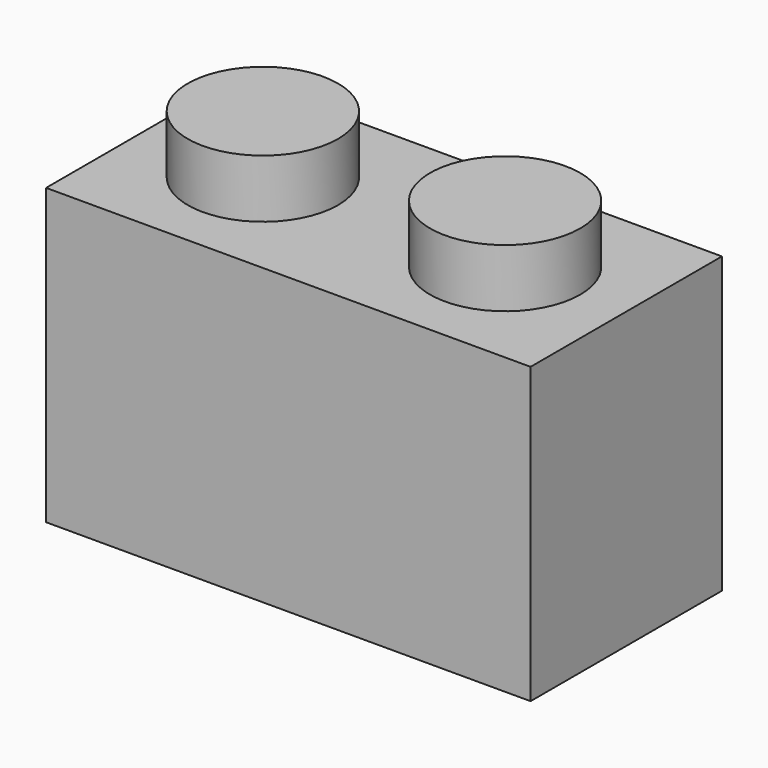
from build123d import *

# Parameters (mm, degrees)
F0_W     = 15.8
F0_H     = 9.6
F1_DEPTH = 7.8
F2_R     = 2.45
F3_DEPTH = 1.9
F4_W     = 12.8
F4_H     = 4.8
F4_R     = 1.55
F5_DEPTH = 8.3


with BuildPart() as f1:
    # F0 (on Front) → F1 (new body)
    with BuildSketch(Plane.XZ):
        with Locations((-56.280687, -17.648849)):
            Rectangle(F0_W, F0_H)
    extrude(amount=F1_DEPTH)

    # F2 (on face) → F3 (join)
    with BuildSketch(Plane.XY.offset(-12.848849)):
        with Locations((-60.230687, -3.9)):
            Circle(F2_R)
        with Locations((-52.330687, -3.9)):
            Circle(F2_R)
    extrude(amount=F3_DEPTH)

    # F4 (on face) → F5 (cut)
    with BuildSketch(Plane(origin=(0, 0, -22.448849), x_dir=(1, 0, 0), z_dir=(0, 0, -1))):
        with Locations((-56.280687, 3.9)):
            Rectangle(F4_W, F4_H)
        with Locations((-56.280687, 3.9)):
            Circle(F4_R, mode=Mode.SUBTRACT)
    extrude(amount=-F5_DEPTH, mode=Mode.SUBTRACT)


solid = f1.part
